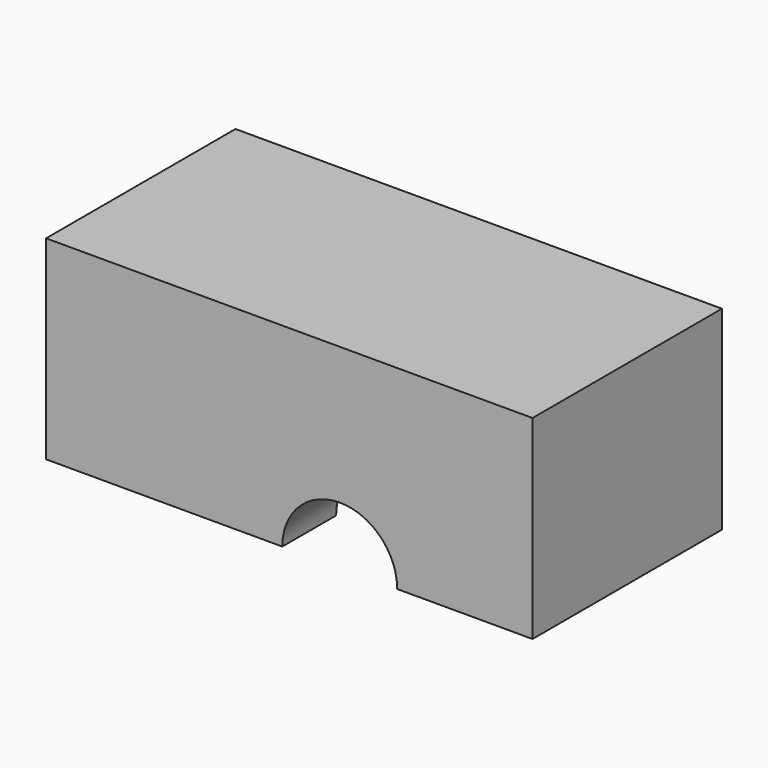
from build123d import *

# Parameters (mm, degrees)
F0_W     = 38.1
F0_H     = 13.271
F1_DEPTH = 15.24
F3_DEPTH = 8
F0_H_2   = 5.271
F4_DEPTH = 15.24
F5_R     = 4.5
F6_DEPTH = 50.8


with BuildPart() as f1:
    # F0 (on Top) → F1 (new body)
    with BuildSketch(Plane.XY):
        with Locations((0, 2.6355)):
            Rectangle(F0_W, F0_H)
    extrude(amount=F1_DEPTH)

    # F2 (on face) → F3 (cut)
    with BuildSketch(Plane.XZ.offset(4)):
        with BuildLine():
            Line((8.45, 0), (15.45, 0))
            ThreePointArc((15.45, 0), (3.95, 11.5), (-7.55, 0))
            Line((-7.55, 0), (-0.55, 0))
            ThreePointArc((-0.55, 0), (3.95, 4.5), (8.45, 0))
        make_face()
        with BuildLine():
            Line((-0.55, 0), (8.45, 0))
            ThreePointArc((8.45, 0), (3.95, 4.5), (-0.55, 0))
        make_face()
    extrude(amount=-F3_DEPTH, mode=Mode.SUBTRACT)

    # F0 (on Top) → F4 (join)
    with BuildSketch(Plane.XY):
        with Locations((0, -6.6355)):
            Rectangle(F0_W, F0_H_2)
    extrude(amount=F4_DEPTH)

    # F5 (on face) → F6 (cut)
    with BuildSketch(Plane(origin=(0, 9.271, 0), x_dir=(-1, 0, 0), z_dir=(0, 1, 0))):
        with Locations((-3.95, 0)):
            Circle(F5_R)
    extrude(amount=-F6_DEPTH, mode=Mode.SUBTRACT)


solid = f1.part
